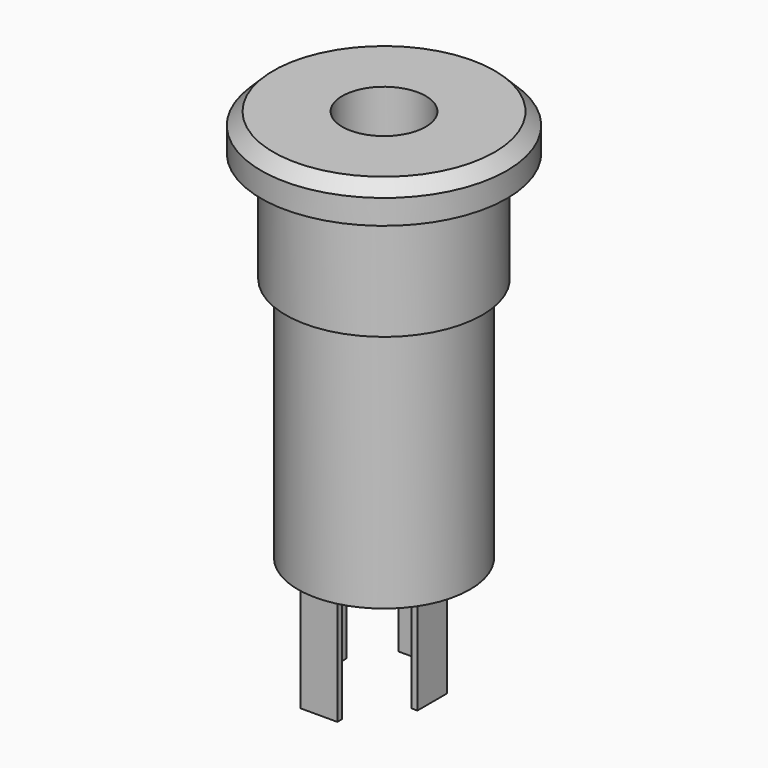
from build123d import *

# Parameters (mm, degrees)
CYLINDER003_R             = 1.7
CYLINDER003_DEPTH         = 10
CYLINDER002_R             = 3.5
CYLINDER002_DEPTH         = 16
BOX_W                     = 1.5
BOX_H                     = 0.25
BOX_DEPTH                 = 4.6
BOX001_W                  = 1.5
BOX001_H                  = 0.25
BOX001_DEPTH              = 4.6
BOX001001_W               = 1.5
BOX001001_H               = 0.25
BOX001001_DEPTH           = 4.6
BOX001001_PLACEMENT_ANGLE = 90
BOX001002_W               = 1.5
BOX001002_H               = 0.25
BOX001002_DEPTH           = 4.6
BOX001002_PLACEMENT_ANGLE = 90
CYLINDER_R                = 5
CYLINDER_DEPTH            = 1.5
CHAMFER_SIZE              = 0.5
CYLINDER001_R             = 4
CYLINDER001_DEPTH         = 4.6


with BuildPart() as hole:
    # Cylinder003 → Cylinder003 (new body)
    with BuildSketch(Plane.XY.offset(-8)):
        Circle(CYLINDER003_R)
    extrude(amount=CYLINDER003_DEPTH)


with BuildPart() as cylinder002:
    # Cylinder002 → Cylinder002 (new body)
    with BuildSketch(Plane.XY.offset(-14.5)):
        Circle(CYLINDER002_R)
    extrude(amount=CYLINDER002_DEPTH)


with BuildPart() as contact:
    # Box → Box (new body)
    with BuildSketch(Plane(origin=(-1, -3, -19), x_dir=(1, 0, 0), z_dir=(0, 0, 1))):
        with Locations((0.75, 0.125)):
            Rectangle(BOX_W, BOX_H)
    extrude(amount=BOX_DEPTH)


with BuildPart() as contact001:
    # Box001 → Box001 (new body)
    with BuildSketch(Plane(origin=(-1, 2, -19), x_dir=(1, 0, 0), z_dir=(0, 0, 1))):
        with Locations((0.75, 0.125)):
            Rectangle(BOX001_W, BOX001_H)
    extrude(amount=BOX001_DEPTH)


with BuildPart() as contact002:
    # Box001001 → Box001001 (new body)
    with BuildSketch(Plane.XY):
        with Locations((0.75, 0.125)):
            Rectangle(BOX001001_W, BOX001001_H)
    extrude(amount=BOX001001_DEPTH)


with BuildPart() as contact002_1:
    # Box001001 placement: moved
    add(contact002.part.moved(Location((2, -0.8, -19))).rotate(Axis((2, -0.8, -19), (0, 0, 1)), BOX001001_PLACEMENT_ANGLE))


with BuildPart() as contact003:
    # Box001002 → Box001002 (new body)
    with BuildSketch(Plane.XY):
        with Locations((0.75, 0.125)):
            Rectangle(BOX001002_W, BOX001002_H)
    extrude(amount=BOX001002_DEPTH)


with BuildPart() as contact003_1:
    # Box001002 placement: moved
    add(contact003.part.moved(Location((-2, -0.9, -19))).rotate(Axis((-2, -0.9, -19), (0, 0, 1)), BOX001002_PLACEMENT_ANGLE))


with BuildPart() as chamfer_body:
    # Cylinder → Cylinder (new body)
    with BuildSketch(Plane.XY):
        Circle(CYLINDER_R)
    extrude(amount=CYLINDER_DEPTH)

    # Chamfer
    chamfer_edges = [chamfer_body.edges().sort_by_distance(p)[0] for p in [
        (-5, 0, 1.5),
    ]]
    chamfer(chamfer_edges, length=CHAMFER_SIZE)


with BuildPart() as cut:
    # Cylinder001 → Cylinder001 (new body)
    with BuildSketch(Plane.XY.offset(-4.5)):
        Circle(CYLINDER001_R)
    extrude(amount=CYLINDER001_DEPTH)

    # Fusion: union Cylinder002, Contact, Contact001, Contact002, Contact003, Chamfer body
    add(cylinder002.part)
    add(contact.part)
    add(contact001.part)
    add(contact002_1.part)
    add(contact003_1.part)
    add(chamfer_body.part)

    # Cut: cut hole
    add(hole.part, mode=Mode.SUBTRACT)


solid = cut.part
